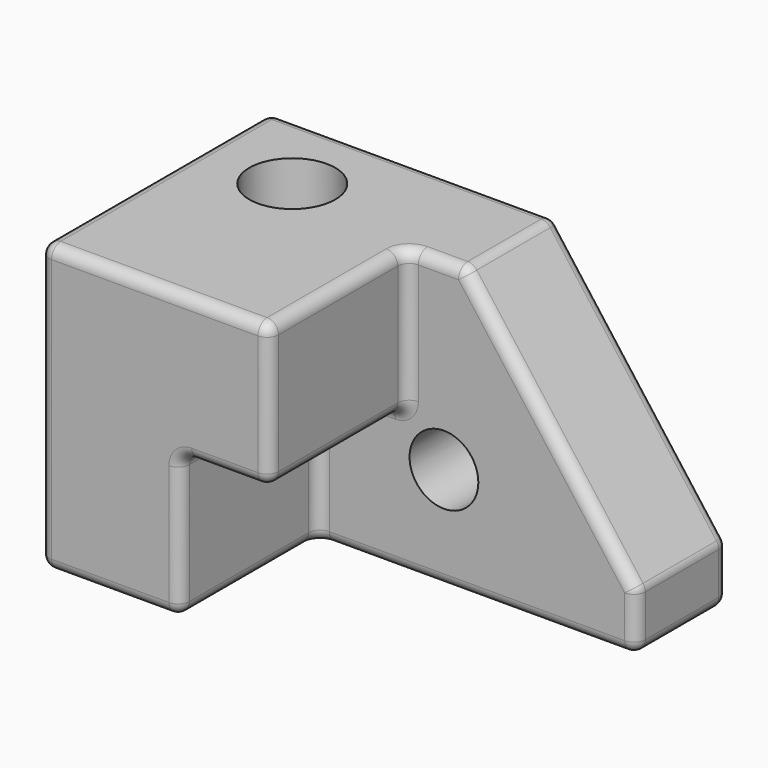
from build123d import *

# Parameters (mm, degrees)
F0_W     = 203.2
F0_H     = 127
F1_DEPTH = 127
F3_DEPTH = 76.2
F4_SIZE2 = 101.6
F4_SIZE  = 76.2
F5_R     = 5.08
F6_R     = 15.24
F7_DEPTH = 50.8
F8_R     = 19.05
F9_DEPTH = 127


with BuildPart() as f1:
    # F0 (on Front) → F1 (new body)
    with BuildSketch(Plane.XZ):
        Rectangle(F0_W, F0_H)
    extrude(amount=-F1_DEPTH)

    # F2 (on face) → F3 (cut)
    with BuildSketch(Plane.XZ):
        Polygon((-39.4764244556, 0), (-39.4764244556, -63.5), (101.6, -63.5), (101.6, 63.5), (0, 63.5), (0, 0), align=None)
    extrude(amount=-F3_DEPTH, mode=Mode.SUBTRACT)

    # F4
    f4_edges = [f1.edges().sort_by_distance(p)[0] for p in [
        (101.6, 101.6, 63.5),
    ]]
    f4_side = f1.faces().sort_by_distance((-21.771429, 74.385714, 63.5))[0]
    chamfer(f4_edges, length=F4_SIZE, length2=F4_SIZE2, reference=f4_side)

    # F5
    f5_edges = [f1.edges().sort_by_distance(p)[0] for p in [
        (101.6, 101.6, -63.5),
        (101.6, 101.6, -38.1),
        (25.4, 101.6, 63.5),
        (63.5, 76.2, 12.7),
        (63.5, 127, 12.7),
        (12.7, 76.2, 63.5),
        (0, 38.1, 63.5),
        (0, 38.1, 0),
        (101.6, 76.2, -50.8),
        (31.061788, 76.2, -63.5),
        (-39.476424, 76.2, -31.75),
        (0, 76.2, 31.75),
        (-19.738212, 76.2, 0),
        (-39.476424, 0, -31.75),
        (-19.738212, 0, 0),
        (-50.8, 0, 63.5),
        (0, 0, 31.75),
        (-101.6, 63.5, 63.5),
        (-38.1, 127, 63.5),
        (-70.538212, 0, -63.5),
        (-101.6, 0, 0),
        (-101.6, 63.5, -63.5),
        (-39.476424, 38.1, 0),
        (101.6, 127, -50.8),
        (0, 127, -63.5),
        (-39.476424, 38.1, -63.5),
        (-101.6, 127, 0),
    ]]
    fillet(f5_edges, radius=F5_R)

    # F6 (on face) → F7 (cut, through all)
    with BuildSketch(Plane.XZ.offset(-76.2)):
        with Locations((16.4035755444, -17.78)):
            Circle(F6_R)
    extrude(amount=-F7_DEPTH, mode=Mode.SUBTRACT)

    # F8 (on face) → F9 (cut, through all)
    with BuildSketch(Plane.XY.offset(63.5)):
        with Locations((-60.96, 88.9)):
            Circle(F8_R)
    extrude(amount=-F9_DEPTH, mode=Mode.SUBTRACT)


solid = f1.part
